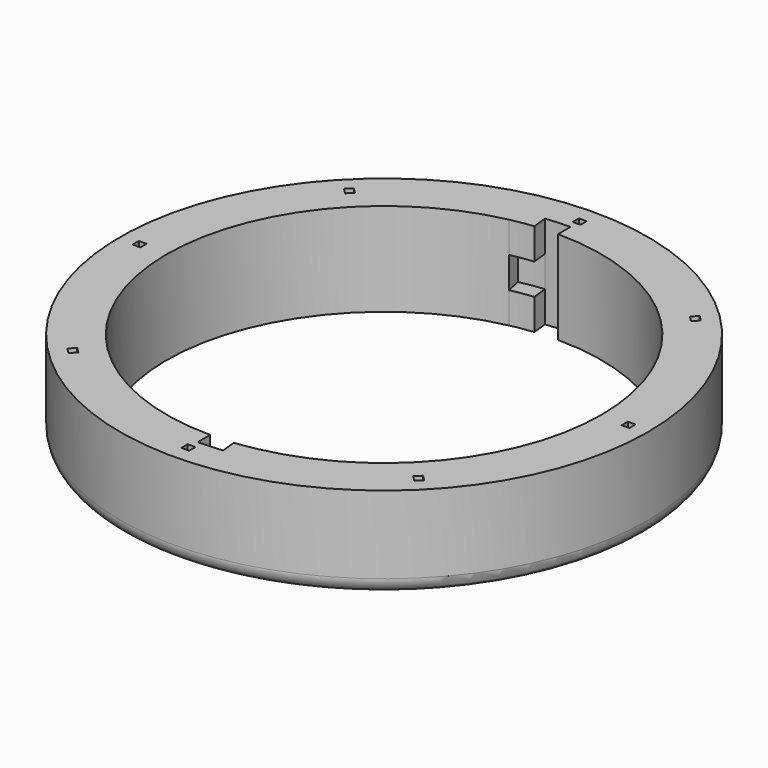
from build123d import *

# Parameters (mm, degrees)
F0_R     = 85
F1_DEPTH = 30
F2_DEPTH = 10
F5_DEPTH = 10
F6_W     = 2.5
F6_H     = 2.5
F7_DEPTH = 20
F9_COUNT = 8
F11_R    = 5


with BuildPart() as f1:
    # F0 (on Top) → F1 (new body)
    with BuildSketch(Plane.XY):
        Circle(F0_R)
        with BuildLine():
            ThreePointArc((-7.8396347451, 74.5891421526), (-3.9251967182, 74.8972151066), (0, 75))
            ThreePointArc((0, 75), (53.033008589, 53.033008589), (75, 0))
            ThreePointArc((75, 0), (58.2859471093, -47.1990293287), (15.5933768113, -73.361070055))
            ThreePointArc((15.5933768113, -73.361070055), (11.732584878, -74.0766255446), (7.8396347451, -74.5891421526))
            ThreePointArc((7.8396347451, -74.5891421526), (3.9251967182, -74.8972151066), (0, -75))
            ThreePointArc((0, -75), (-74.5891421526, -7.8396347451), (-15.5933768113, 73.361070055))
            ThreePointArc((-15.5933768113, 73.361070055), (-11.732584878, 74.0766255446), (-7.8396347451, 74.5891421526))
        make_face(mode=Mode.SUBTRACT)
        with BuildLine():
            ThreePointArc((0, -70), (-69.6165326758, -7.3169924287), (-14.5538183572, 68.4703320514))
            Line((-14.5538183572, 68.4703320514), (-15.5933768113, 73.361070055))
            ThreePointArc((-15.5933768113, 73.361070055), (-74.5891421526, -7.8396347451), (0, -75))
            Line((0, -75), (0, -70))
        make_face()
        with BuildLine():
            ThreePointArc((0, 70), (49.4974746831, 49.4974746831), (70, 0))
            ThreePointArc((70, 0), (54.400217302, -44.0524273735), (14.5538183572, -68.4703320514))
            Line((14.5538183572, -68.4703320514), (15.5933768113, -73.361070055))
            ThreePointArc((15.5933768113, -73.361070055), (58.2859471093, -47.1990293287), (75, 0))
            ThreePointArc((75, 0), (53.033008589, 53.033008589), (0, 75))
            Line((0, 75), (0, 70))
        make_face()
    extrude(amount=F1_DEPTH)

    # F0 (on Top) → F2 (join)
    with BuildSketch(Plane.XY):
        with BuildLine():
            ThreePointArc((-14.5538183572, 68.4703320514), (-10.9504125528, 69.1381838417), (-7.3169924287, 69.6165326758))
            Line((-7.3169924287, 69.6165326758), (-7.8396347451, 74.5891421526))
            ThreePointArc((-7.8396347451, 74.5891421526), (-11.732584878, 74.0766255446), (-15.5933768113, 73.361070055))
            Line((-15.5933768113, 73.361070055), (-14.5538183572, 68.4703320514))
        make_face()
        with BuildLine():
            Line((15.5933768113, -73.361070055), (14.5538183572, -68.4703320514))
            ThreePointArc((14.5538183572, -68.4703320514), (10.9504125528, -69.1381838417), (7.3169924287, -69.6165326758))
            Line((7.3169924287, -69.6165326758), (7.8396347451, -74.5891421526))
            ThreePointArc((7.8396347451, -74.5891421526), (11.732584878, -74.0766255446), (15.5933768113, -73.361070055))
        make_face()
    extrude(amount=F2_DEPTH)

    # F4 (on offset) → F5 (join)
    with BuildSketch(Plane.XY.offset(20)):
        with BuildLine():
            Line((-7.3169924287, 69.6165326758), (-7.8396347451, 74.5891421526))
            ThreePointArc((-7.8396347451, 74.5891421526), (-11.732584878, 74.0766255446), (-15.5933768113, 73.361070055))
            Line((-15.5933768113, 73.361070055), (-14.5538183572, 68.4703320514))
            ThreePointArc((-14.5538183572, 68.4703320514), (-10.9504125528, 69.1381838417), (-7.3169924287, 69.6165326758))
        make_face()
        with BuildLine():
            ThreePointArc((7.8396347451, -74.5891421526), (11.732584878, -74.0766255446), (15.5933768113, -73.361070055))
            Line((15.5933768113, -73.361070055), (14.5538183572, -68.4703320514))
            ThreePointArc((14.5538183572, -68.4703320514), (10.9504125528, -69.1381838417), (7.3169924287, -69.6165326758))
            Line((7.3169924287, -69.6165326758), (7.8396347451, -74.5891421526))
        make_face()
    extrude(amount=F5_DEPTH)


with BuildPart() as f7:
    # F6 (on face) → F7 (new body, symmetric)
    with BuildSketch(Plane.XY.offset(30)):
        with Locations((0, 78.75)):
            Rectangle(F6_W, F6_H)
    extrude(amount=F7_DEPTH, both=True)


with BuildPart() as f9_1:
    # F9: instance of F7
    add(f7.part.rotate(Axis((0, 0, 11.2639116123), (0, 0, 1)), 1 * 360 / F9_COUNT))


with BuildPart() as f9_2:
    # F9: instance of F7
    add(f7.part.rotate(Axis((0, 0, 11.2639116123), (0, 0, 1)), 2 * 360 / F9_COUNT))


with BuildPart() as f9_3:
    # F9: instance of F7
    add(f7.part.rotate(Axis((0, 0, 11.2639116123), (0, 0, 1)), 3 * 360 / F9_COUNT))


with BuildPart() as f9_4:
    # F9: instance of F7
    add(f7.part.rotate(Axis((0, 0, 11.2639116123), (0, 0, 1)), 4 * 360 / F9_COUNT))


with BuildPart() as f9_5:
    # F9: instance of F7
    add(f7.part.rotate(Axis((0, 0, 11.2639116123), (0, 0, 1)), 5 * 360 / F9_COUNT))


with BuildPart() as f9_6:
    # F9: instance of F7
    add(f7.part.rotate(Axis((0, 0, 11.2639116123), (0, 0, 1)), 6 * 360 / F9_COUNT))


with BuildPart() as f9_7:
    # F9: instance of F7
    add(f7.part.rotate(Axis((0, 0, 11.2639116123), (0, 0, 1)), 7 * 360 / F9_COUNT))


with BuildPart() as f1_1:
    add(f1.part)

    # F10: cut F9_2, F9_1, F7, F9_7, F9_6, F9_5, F9_4, F9_3
    add(f9_2.part, mode=Mode.SUBTRACT)
    add(f9_1.part, mode=Mode.SUBTRACT)
    add(f7.part, mode=Mode.SUBTRACT)
    add(f9_7.part, mode=Mode.SUBTRACT)
    add(f9_6.part, mode=Mode.SUBTRACT)
    add(f9_5.part, mode=Mode.SUBTRACT)
    add(f9_4.part, mode=Mode.SUBTRACT)
    add(f9_3.part, mode=Mode.SUBTRACT)

    # F11
    f11_edges = [f1_1.edges().sort_by_distance(p)[0] for p in [
        (-85, 0, 0),
    ]]
    fillet(f11_edges, radius=F11_R)


solid = f1_1.part
